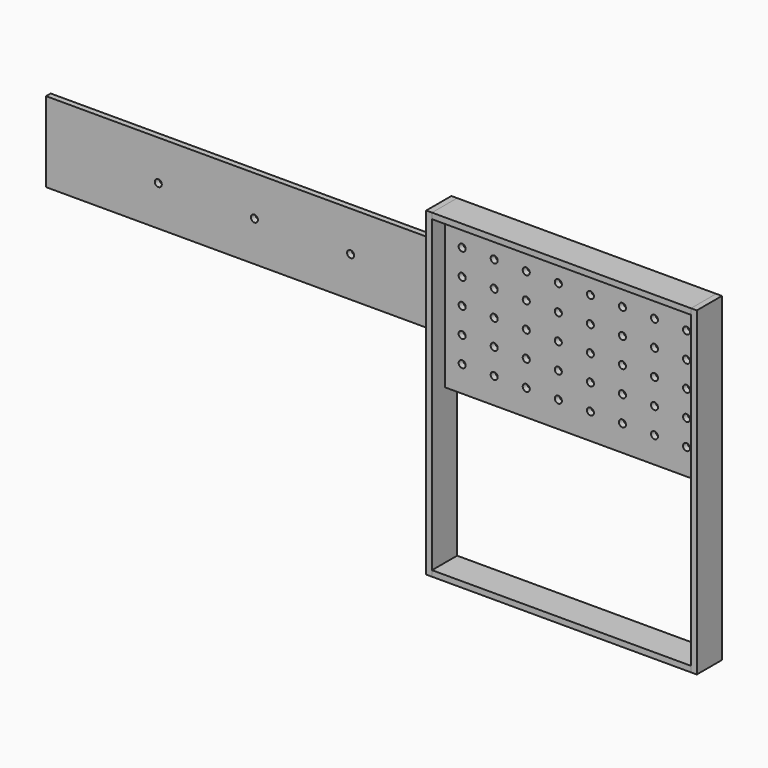
from build123d import *

# Parameters (mm, degrees)
F0_W          = 808
F0_H          = 482
F1_DEPTH      = 18
F2_W          = 808
F2_H          = 18
F3_DEPTH      = 50
F3_DEPTH_BACK = 48
F4_W          = 18
F4_H          = 1000
F5_DEPTH      = 50
F5_DEPTH_BACK = 48
F6_R          = 11
F7_DEPTH      = 48.001
F8_W          = 18
F8_H          = 250
F9_DEPTH      = 1250
F10_R         = 11
F11_DEPTH     = 25


with BuildPart() as f1:
    # F0 (on Front) → F1 (new body)
    with BuildSketch(Plane.XZ):
        Rectangle(F0_W, F0_H)
    extrude(amount=F1_DEPTH)

    # F6 (on face) → F7 (cut, through all)
    with BuildSketch(Plane.XZ.offset(18)):
        with Locations((-350, 160)):
            Circle(F6_R)
        with Locations((-350, 80)):
            Circle(F6_R)
        with Locations((-350, 0)):
            Circle(F6_R)
        with Locations((-350, -80)):
            Circle(F6_R)
        with Locations((-350, -160)):
            Circle(F6_R)
        with Locations((-250, 160)):
            Circle(F6_R)
        with Locations((-250, 80)):
            Circle(F6_R)
        with Locations((-250, 0)):
            Circle(F6_R)
        with Locations((-250, -80)):
            Circle(F6_R)
        with Locations((-250, -160)):
            Circle(F6_R)
        with Locations((-150, 160)):
            Circle(F6_R)
        with Locations((-150, 80)):
            Circle(F6_R)
        with Locations((-150, 0)):
            Circle(F6_R)
        with Locations((-150, -80)):
            Circle(F6_R)
        with Locations((-150, -160)):
            Circle(F6_R)
        with Locations((-50, 160)):
            Circle(F6_R)
        with Locations((-50, 80)):
            Circle(F6_R)
        with Locations((-50, 0)):
            Circle(F6_R)
        with Locations((-50, -80)):
            Circle(F6_R)
        with Locations((-50, -160)):
            Circle(F6_R)
        with Locations((50, 160)):
            Circle(F6_R)
        with Locations((50, 80)):
            Circle(F6_R)
        with Locations((50, 0)):
            Circle(F6_R)
        with Locations((50, -80)):
            Circle(F6_R)
        with Locations((50, -160)):
            Circle(F6_R)
        with Locations((150, 160)):
            Circle(F6_R)
        with Locations((150, 80)):
            Circle(F6_R)
        with Locations((150, 0)):
            Circle(F6_R)
        with Locations((150, -80)):
            Circle(F6_R)
        with Locations((150, -160)):
            Circle(F6_R)
        with Locations((250, 160)):
            Circle(F6_R)
        with Locations((250, 80)):
            Circle(F6_R)
        with Locations((250, 0)):
            Circle(F6_R)
        with Locations((250, -80)):
            Circle(F6_R)
        with Locations((250, -160)):
            Circle(F6_R)
        with Locations((350, 160)):
            Circle(F6_R)
        with Locations((350, 80)):
            Circle(F6_R)
        with Locations((350, 0)):
            Circle(F6_R)
        with Locations((350, -80)):
            Circle(F6_R)
        with Locations((350, -160)):
            Circle(F6_R)
    extrude(amount=-F7_DEPTH, mode=Mode.SUBTRACT)


with BuildPart() as f3:
    # F2 (on face) → F3 (new body, two sides)
    with BuildSketch(Plane.XZ.offset(18)) as f3_sk:
        with Locations((0, 250)):
            Rectangle(F2_W, F2_H)
        with Locations((0, -732)):
            Rectangle(F2_W, F2_H)
    extrude(amount=F3_DEPTH)
    extrude(f3_sk.sketch, amount=-F3_DEPTH_BACK)


with BuildPart() as f5:
    # F4 (on face) → F5 (new body, two sides)
    with BuildSketch(Plane.XZ.offset(18)) as f5_sk:
        with Locations((413, -241)):
            Rectangle(F4_W, F4_H)
        with Locations((-413, -241)):
            Rectangle(F4_W, F4_H)
    extrude(amount=F5_DEPTH)
    extrude(f5_sk.sketch, amount=-F5_DEPTH_BACK)


with BuildPart() as f9:
    # F8 (on face) → F9 (new body)
    with BuildSketch(Plane(origin=(-422, 0, 0), x_dir=(0, -1, 0), z_dir=(-1, 0, 0))):
        with Locations((-21, 9)):
            Rectangle(F8_W, F8_H)
    extrude(amount=F9_DEPTH)

    # F10 (on face) → F11 (cut)
    with BuildSketch(Plane.XZ.offset(-12)):
        with Locations((-722, 9)):
            Circle(F10_R)
        with Locations((-1022, 9)):
            Circle(F10_R)
        with Locations((-1322, 9)):
            Circle(F10_R)
    extrude(amount=-F11_DEPTH, mode=Mode.SUBTRACT)


solid = Compound([f1.part, f3.part, f5.part, f9.part])
